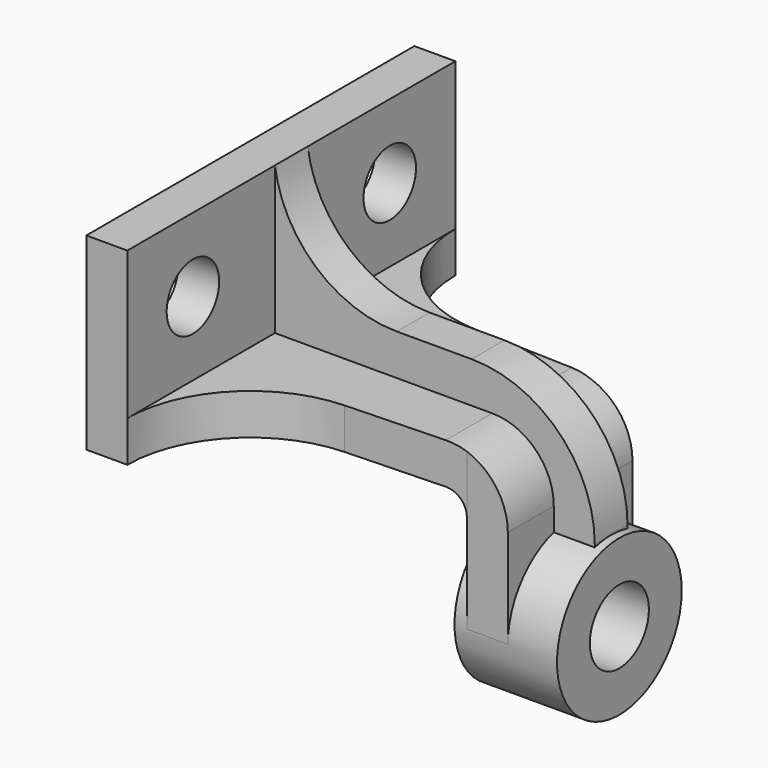
from build123d import *

# Parameters (mm, degrees)
F1_DEPTH  = 50
F2_DEPTH  = 19
F4_DEPTH  = 10
F5_R      = 5
F6_R      = 8
F7_DEPTH  = 10
F9_R      = 19
F9_R_2    = 9
F10_DEPTH = 25
F11_DEPTH = 25
F12_W     = 10
F12_H     = 19
F13_DEPTH = 5
F14_DEPTH = 25
F15_R     = 15


with BuildPart() as f1:
    # F0 (on Front) → F1 (new body, symmetric)
    with BuildSketch(Plane.XZ):
        Polygon((0, 46), (0, 0), (68, 0), (68, 10), (10, 10), (10, 46), align=None)
    extrude(amount=F1_DEPTH, both=True)

    # F0 (on Front) → F2 (join, symmetric)
    with BuildSketch(Plane.XZ):
        Polygon((0, 46), (0, 0), (68, 0), (68, 10), (10, 10), (10, 46), align=None)
        Polygon((68, 10), (68, 0), (68, -29), (78, -29), (78, 10), align=None)
    extrude(amount=F2_DEPTH, both=True)

    # F3 (on face) → F4 (cut, through all)
    with BuildSketch(Plane.XY.offset(10)):
        with BuildLine():
            ThreePointArc((38.9489616917, -20.0184170119), (18.418397311, -29.1617077145), (10, -50))
            Line((10, -50), (68, -50))
            Line((68, -50), (68, -19))
            Line((68, -19), (38.9489616917, -20.0184170119))
        make_face()
        with BuildLine():
            Line((68, 50), (10, 50))
            ThreePointArc((10, 50), (18.418397311, 29.1617077145), (38.9489616917, 20.0184170119))
            Line((38.9489616917, 20.0184170119), (68, 19))
            Line((68, 19), (68, 50))
        make_face()
    extrude(amount=-F4_DEPTH, mode=Mode.SUBTRACT)

    # F5
    f5_edges = [f1.edges().sort_by_distance(p)[0] for p in [
        (68, 0, 0),
    ]]
    fillet(f5_edges, radius=F5_R)

    # F6 (on face) → F7 (cut)
    with BuildSketch(Plane.YZ.offset(10)):
        with Locations((-30, 28)):
            Circle(F6_R)
        with Locations((30, 28)):
            Circle(F6_R)
    extrude(amount=-F7_DEPTH, mode=Mode.SUBTRACT)

    # F9 (on offset) → F10 (join)
    with BuildSketch(Plane.YZ.offset(90)):
        with Locations((0, -29)):
            Circle(F9_R)
        with Locations((0, -29)):
            Circle(F9_R_2, mode=Mode.SUBTRACT)
    extrude(amount=-F10_DEPTH)

    # F11 (cut): a face of the model
    f11_faces = [f1.faces().sort_by_distance(p)[0] for p in [
        (78, 0, -25.1802813658),
    ]]
    extrude(f11_faces, amount=-F11_DEPTH, mode=Mode.SUBTRACT)

    # F12 (on Front) → F13 (join, symmetric)
    with BuildSketch(Plane.XZ):
        with BuildLine():
            ThreePointArc((39.7321374946, 20), (19.9837198365, 27.4168204187), (10, 46))
            Line((10, 46), (10, 10))
            Line((10, 10), (38.9489616917, 10))
            Line((38.9489616917, 10), (68, 10))
            Line((68, 10), (73, 10))
            ThreePointArc((73, 10), (76.5355339059, 8.5355339059), (78, 5))
            Line((78, 5), (78, -10))
            Line((78, -10), (88, -10))
            ThreePointArc((88, -10), (79.2132034356, 11.2132034356), (58, 20))
            Line((58, 20), (39.7321374946, 20))
        make_face()
        with BuildLine():
            Line((73, 10), (68, 10))
            Line((68, 10), (68, -5))
            Line((68, -5), (68, -10))
            Line((68, -10), (78, -10))
            Line((78, -10), (78, 5))
            ThreePointArc((78, 5), (76.5355339059, 8.5355339059), (73, 10))
        make_face()
        with Locations((83, -19.5)):
            Rectangle(F12_W, F12_H)
        with Locations((73, -19.5)):
            Rectangle(F12_W, F12_H)
    extrude(amount=F13_DEPTH, both=True)

    # F14 (cut): a face of the model
    f14_faces = [f1.faces().sort_by_distance(p)[0] for p in [
        (88, 0, -24.7319215604),
    ]]
    extrude(f14_faces, amount=-F14_DEPTH, mode=Mode.SUBTRACT)

    # F15
    f15_edges = [f1.edges().sort_by_distance(p)[0] for p in [
        (78, -12, 10),
        (78, 12, 10),
    ]]
    fillet(f15_edges, radius=F15_R)


solid = f1.part
